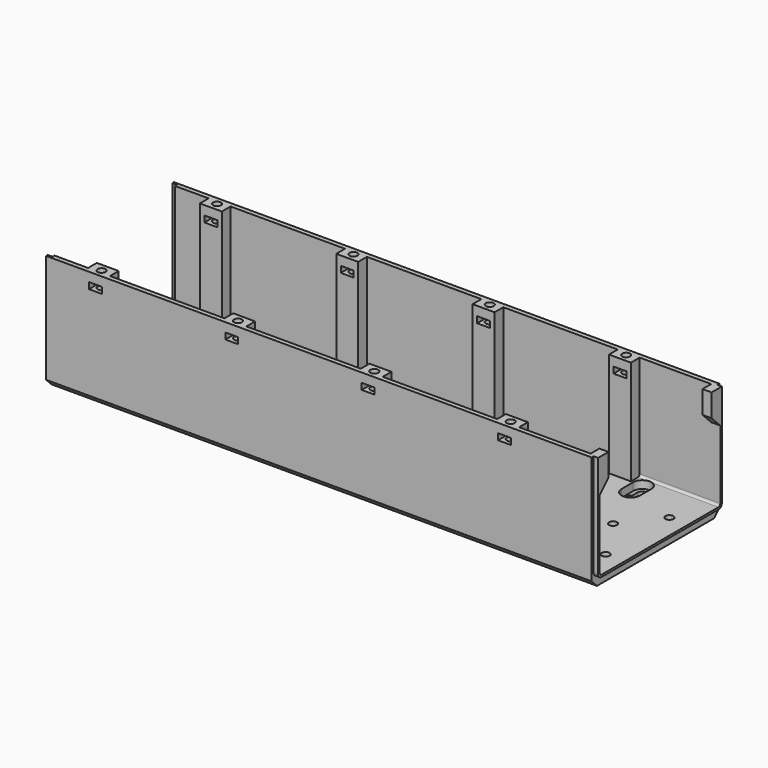
from build123d import *

# Parameters (mm, degrees)
PAD029_DEPTH         = 240
POCKET034_DEPTH      = 2.101
SKETCH094_W          = 9.65
SKETCH094_H          = 4.8
PAD030_DEPTH         = 46
SKETCH095_R          = 1.75
POCKET035_DEPTH      = 46.001
SKETCH096_R          = 1.75
POCKET036_DEPTH      = 5.001
SKETCH097_R          = 3
POCKET037_DEPTH      = 2.951
POCKET044_DEPTH      = 49.401
SKETCH098_W          = 5.65
SKETCH098_H          = 2.75
POCKET038_DEPTH      = 35.151
POCKET038_DEPTH_BACK = 35.151
PAD031_DEPTH         = 2
PAD032_DEPTH         = 4


with BuildPart() as part:
    # Sketch092 → Pad029 (new body)
    with BuildSketch(Plane.YZ.offset(-21.698)):
        with BuildLine():
            ThreePointArc((-33.15, 1), (-32.857107, 0.292893), (-32.15, 0))
            Line((-32.15, 0), (32.15, 0))
            ThreePointArc((32.15, 0), (32.857107, 0.292893), (33.15, 1))
            Line((33.15, 1), (33.15, 46))
            Line((33.15, 46), (35.15, 46))
            Line((35.15, 46), (35.15, -2))
            Line((35.15, -2), (32.15, -5))
            Line((32.15, -5), (-32.15, -5))
            Line((-32.15, -5), (-35.15, -2))
            Line((-35.15, -2), (-35.15, 46))
            Line((-35.15, 46), (-33.15, 46))
            Line((-33.15, 46), (-33.15, 1))
        make_face()
    extrude(amount=PAD029_DEPTH)

    # Sketch093 → Pocket034 (cut, through all)
    with BuildSketch(Plane.YZ.offset(-19.598)):
        with BuildLine():
            ThreePointArc((-33.15, 1), (-32.857107, 0.292893), (-32.15, 0))
            Line((-32.15, 0), (32.15, 0))
            ThreePointArc((32.15, 0), (32.857107, 0.292893), (33.15, 1))
            Line((33.15, 46), (33.15, 1))
            Line((34.25, 46), (33.15, 46))
            Line((34.25, 1), (34.25, 46))
            ThreePointArc((32.15, -1.1), (33.634924, -0.484924), (34.25, 1))
            Line((-32.15, -1.1), (32.15, -1.1))
            ThreePointArc((-34.25, 1), (-33.634924, -0.484924), (-32.15, -1.1))
            Line((-34.25, 46), (-34.25, 1))
            Line((-33.15, 46), (-34.25, 46))
            Line((-33.15, 1), (-33.15, 46))
        make_face()
    extrude(amount=-POCKET034_DEPTH, mode=Mode.SUBTRACT)

    # Sketch094 → Pad030 (join)
    with BuildSketch(Plane.XY):
        with Locations((0, 30.75)):
            Rectangle(SKETCH094_W, SKETCH094_H)
        with Locations((60, 30.75)):
            Rectangle(SKETCH094_W, SKETCH094_H)
        with Locations((60, -30.75)):
            Rectangle(SKETCH094_W, SKETCH094_H)
        with Locations((0, -30.75)):
            Rectangle(SKETCH094_W, SKETCH094_H)
        with Locations((120, 30.75)):
            Rectangle(SKETCH094_W, SKETCH094_H)
        with Locations((180, 30.75)):
            Rectangle(SKETCH094_W, SKETCH094_H)
        with Locations((180, -30.75)):
            Rectangle(SKETCH094_W, SKETCH094_H)
        with Locations((120, -30.75)):
            Rectangle(SKETCH094_W, SKETCH094_H)
    extrude(amount=PAD030_DEPTH)

    # Sketch095 → Pocket035 (cut, through all)
    with BuildSketch(Plane.XY):
        with Locations((0, 31.75)):
            Circle(SKETCH095_R)
        with Locations((60, 31.75)):
            Circle(SKETCH095_R)
        with Locations((60, -31.75)):
            Circle(SKETCH095_R)
        with Locations((0, -31.75)):
            Circle(SKETCH095_R)
        with Locations((120, 31.75)):
            Circle(SKETCH095_R)
        with Locations((180, 31.75)):
            Circle(SKETCH095_R)
        with Locations((180, -31.75)):
            Circle(SKETCH095_R)
        with Locations((120, -31.75)):
            Circle(SKETCH095_R)
    extrude(amount=POCKET035_DEPTH, mode=Mode.SUBTRACT)

    # Sketch096 → Pocket036 (cut, through all)
    with BuildSketch(Plane.XY):
        with Locations((-15.348, 15.621)):
            Circle(SKETCH096_R)
        with Locations((-15.348, -19.431)):
            Circle(SKETCH096_R)
        with Locations((19.652, 0)):
            Circle(SKETCH096_R)
        with Locations((31.952, 15.621)):
            Circle(SKETCH096_R)
        with Locations((31.952, -19.431)):
            Circle(SKETCH096_R)
        with Locations((44.652, -19.431)):
            Circle(SKETCH096_R)
        with Locations((44.652, 15.621)):
            Circle(SKETCH096_R)
        with Locations((79.652, 0)):
            Circle(SKETCH096_R)
        with Locations((91.952, 15.621)):
            Circle(SKETCH096_R)
        with Locations((91.952, -19.431)):
            Circle(SKETCH096_R)
        with Locations((104.652, 15.621)):
            Circle(SKETCH096_R)
        with Locations((104.652, -19.431)):
            Circle(SKETCH096_R)
        with Locations((139.652, 0)):
            Circle(SKETCH096_R)
        with Locations((151.952, 15.621)):
            Circle(SKETCH096_R)
        with Locations((151.952, -19.431)):
            Circle(SKETCH096_R)
        with Locations((164.652, 15.621)):
            Circle(SKETCH096_R)
        with Locations((164.652, -19.431)):
            Circle(SKETCH096_R)
        with Locations((199.652, 0)):
            Circle(SKETCH096_R)
        with Locations((211.952, 15.621)):
            Circle(SKETCH096_R)
        with Locations((211.952, -19.431)):
            Circle(SKETCH096_R)
        with BuildLine():
            ThreePointArc((7.625, 25.35), (9.825, 18.009341), (12.025, 25.35))
            Line((12.025, 28.35), (12.025, 25.35))
            ThreePointArc((12.025, 28.35), (9.825, 30.550016), (7.625, 28.35))
            Line((7.625, 28.35), (7.625, 25.35))
        make_face()
        with BuildLine():
            ThreePointArc((12.025, -25.35), (9.825, -18.009341), (7.625, -25.35))
            Line((7.625, -25.35), (7.625, -28.35))
            ThreePointArc((7.625, -28.35), (9.825, -30.550013), (12.025, -28.35))
            Line((12.025, -25.35), (12.025, -28.35))
        make_face()
        with BuildLine():
            ThreePointArc((187.625, 25.35), (189.825, 18.009341), (192.025, 25.35))
            Line((192.025, 28.35), (192.025, 25.35))
            ThreePointArc((192.025, 28.35), (189.825, 30.550008), (187.625, 28.35))
            Line((187.625, 25.35), (187.625, 28.35))
        make_face()
        with BuildLine():
            ThreePointArc((192.025, -25.35), (189.825, -18.009341), (187.625, -25.35))
            Line((187.625, -28.35), (187.625, -25.35))
            ThreePointArc((187.625, -28.35), (189.825, -30.550006), (192.025, -28.35))
            Line((192.025, -28.35), (192.025, -25.35))
        make_face()
    extrude(amount=-POCKET036_DEPTH, mode=Mode.SUBTRACT)

    # Sketch097 → Pocket037 (cut, through all)
    with BuildSketch(Plane.XY.offset(-2.05)):
        with Locations((-15.348, 15.621)):
            Circle(SKETCH097_R)
        with Locations((-15.348, -19.431)):
            Circle(SKETCH097_R)
        with Locations((19.652, 0)):
            Circle(SKETCH097_R)
        with Locations((31.952, 15.621)):
            Circle(SKETCH097_R)
        with Locations((44.652, 15.621)):
            Circle(SKETCH097_R)
        with Locations((31.952, -19.431)):
            Circle(SKETCH097_R)
        with Locations((44.652, -19.431)):
            Circle(SKETCH097_R)
        with Locations((79.652, 0)):
            Circle(SKETCH097_R)
        with Locations((91.952, 15.621)):
            Circle(SKETCH097_R)
        with Locations((91.952, -19.431)):
            Circle(SKETCH097_R)
        with Locations((104.652, 15.621)):
            Circle(SKETCH097_R)
        with Locations((104.652, -19.431)):
            Circle(SKETCH097_R)
        with Locations((139.652, 0)):
            Circle(SKETCH097_R)
        with Locations((151.952, 15.621)):
            Circle(SKETCH097_R)
        with Locations((151.952, -19.431)):
            Circle(SKETCH097_R)
        with Locations((164.652, 15.621)):
            Circle(SKETCH097_R)
        with Locations((164.652, -19.431)):
            Circle(SKETCH097_R)
        with Locations((199.652, 0)):
            Circle(SKETCH097_R)
        with Locations((211.952, 15.621)):
            Circle(SKETCH097_R)
        with Locations((211.952, -19.431)):
            Circle(SKETCH097_R)
    extrude(amount=-POCKET037_DEPTH, mode=Mode.SUBTRACT)

    # Sketch112 → Pocket044 (cut, through all)
    with BuildSketch(Plane.XY.offset(-3.4)):
        with BuildLine():
            ThreePointArc((5.825, -28.349974), (9.824987, -32.350008), (13.825, -28.35))
            Line((13.825, -22.009341), (13.825, -28.35))
            Line((5.825, -22.009341), (13.825, -22.009341))
            Line((5.825, -28.349974), (5.825, -22.009341))
        make_face()
        with BuildLine():
            ThreePointArc((13.825, 28.35), (9.825, 32.350021), (5.825, 28.35))
            Line((5.825, 28.35), (5.825, 22.009341))
            Line((5.825, 22.009341), (13.825, 22.009341))
            Line((13.825, 22.009341), (13.825, 28.35))
        make_face()
        with BuildLine():
            ThreePointArc((193.825, 28.35), (189.825, 32.350021), (185.825, 28.35))
            Line((185.825, 28.35), (185.825, 22.009341))
            Line((185.825, 22.009341), (193.825, 22.009341))
            Line((193.825, 22.009341), (193.825, 28.35))
        make_face()
        with BuildLine():
            ThreePointArc((185.825, -28.349974), (189.824987, -32.35001), (193.825, -28.35))
            Line((193.825, -28.35), (193.825, -22.009341))
            Line((193.825, -22.009341), (185.825, -22.009341))
            Line((185.825, -22.009341), (185.825, -28.349974))
        make_face()
    extrude(amount=POCKET044_DEPTH, mode=Mode.SUBTRACT)

    # Sketch098 → Pocket038 (cut, two sides)
    with BuildSketch(Plane.XZ) as pocket038_sk:
        with Locations((0, 40.625)):
            Rectangle(SKETCH098_W, SKETCH098_H)
        with Locations((60, 40.625)):
            Rectangle(SKETCH098_W, SKETCH098_H)
        with Locations((120, 40.625)):
            Rectangle(SKETCH098_W, SKETCH098_H)
        with Locations((180, 40.625)):
            Rectangle(SKETCH098_W, SKETCH098_H)
    extrude(amount=-POCKET038_DEPTH, mode=Mode.SUBTRACT)
    extrude(pocket038_sk.sketch, amount=POCKET038_DEPTH_BACK, mode=Mode.SUBTRACT)

    # Sketch099 → Pad031 (join)
    with BuildSketch(Plane.YZ.offset(218.302)):
        with BuildLine():
            ThreePointArc((-33.15, 1), (-32.857107, 0.292893), (-32.15, 0))
            Line((-32.15, 0), (32.15, 0))
            ThreePointArc((32.15, 0), (32.857107, 0.292893), (33.15, 1))
            Line((33.15, 46), (33.15, 1))
            Line((34.05, 46), (33.15, 46))
            Line((34.05, 1), (34.05, 46))
            ThreePointArc((32.15, -0.9), (33.493503, -0.343503), (34.05, 1))
            Line((-32.15, -0.9), (32.15, -0.9))
            ThreePointArc((-34.05, 1), (-33.493503, -0.343503), (-32.15, -0.9))
            Line((-34.05, 46), (-34.05, 1))
            Line((-33.15, 46), (-34.05, 46))
            Line((-33.15, 1), (-33.15, 46))
        make_face()
    extrude(amount=PAD031_DEPTH)

    # Sketch100 → Pad032 (join)
    with BuildSketch(Plane.YZ.offset(220.302)):
        Polygon((-33.15, 46), (-28.35, 46), (-28.35, 36), (-33.15, 31.2), align=None)
        Polygon((33.15, 46), (28.35, 46), (28.35, 36), (33.15, 31.2), align=None)
    extrude(amount=-PAD032_DEPTH)


solid = part.part
